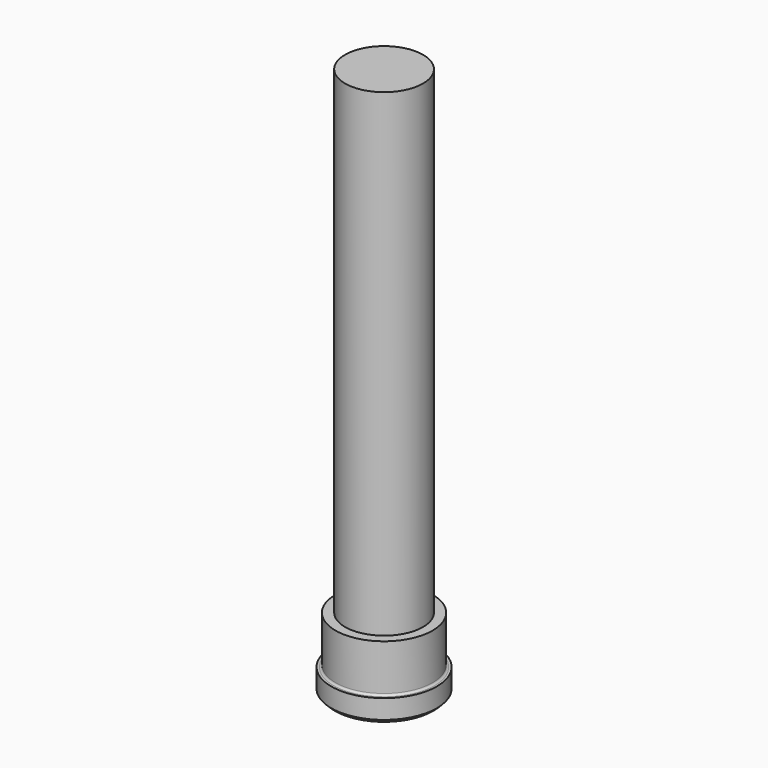
from build123d import *


with BuildPart() as f1:
    # F0 (on Front) → F1 (revolve)
    with BuildSketch(Plane.XZ):
        with BuildLine():
            Line((4.075, 0), (0, 0))
            Line((0, 0), (0, -57.4416))
            Line((0, -57.4416), (4.950736, -57.4416))
            ThreePointArc((4.950736, -57.4416), (5.014312, -57.434786), (5.075, -57.414654))
            ThreePointArc((5.075, -57.414654), (5.12167, -57.388139), (5.162868, -57.353732))
            Line((5.162868, -57.353732), (5.5166, -57))
            Line((5.5166, -57), (5.5166, -55))
            Line((5.5166, -55), (5.275, -55))
            ThreePointArc((5.275, -55), (5.133579, -54.941421), (5.075, -54.8))
            Line((5.075, -54.8), (5.075, -50))
            Line((5.075, -50), (4.075, -50))
            Line((4.075, -50), (4.075, 0))
        make_face()
    revolve(axis=Axis((0, 0, -28.7208), (0, 0, -1)))


solid = f1.part
